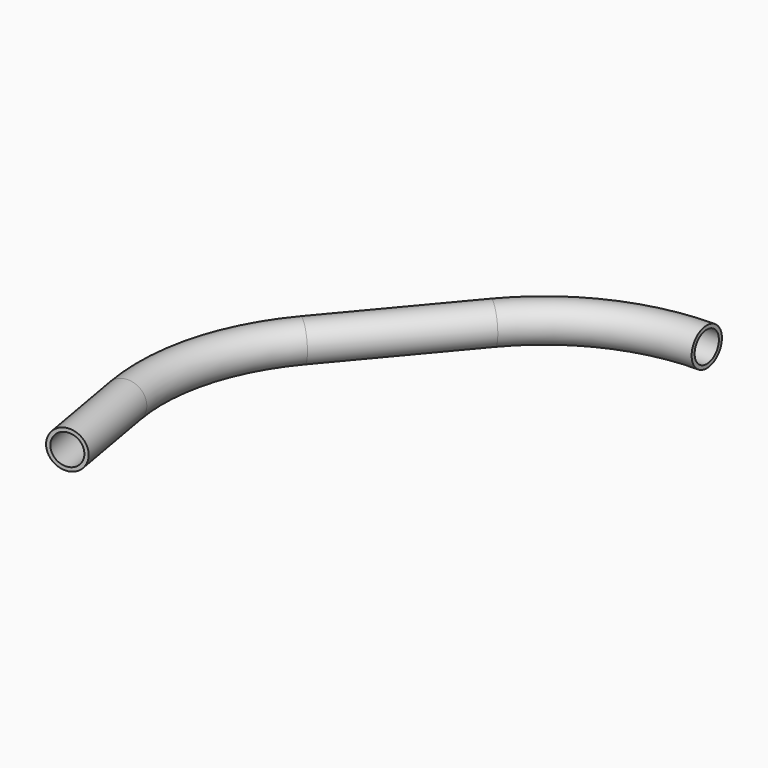
from build123d import *

# Parameters (mm, degrees)
F1_R   = 5
F1_R_2 = 4


with BuildPart() as f2:
    # F2: sweep along a path in F0
    with BuildLine(Plane.XY) as f2_path:
        ThreePointArc((0, 0), (-22.661562, -5.019595), (-41.083711, -19.139338))
        Line((-41.083711, -19.139338), (-66.816289, -49.760662))
        ThreePointArc((-66.816289, -49.760662), (-77.543436, -70.337822), (-78.562508, -93.520848))
        Line((-78.562508, -93.520848), (-74.229701, -118.115106))
    # F1 (on Right) → F2 (sweep)
    with BuildSketch(Plane.YZ):
        Circle(F1_R)
        Circle(F1_R_2, mode=Mode.SUBTRACT)
    sweep(path=f2_path.line)


solid = f2.part
